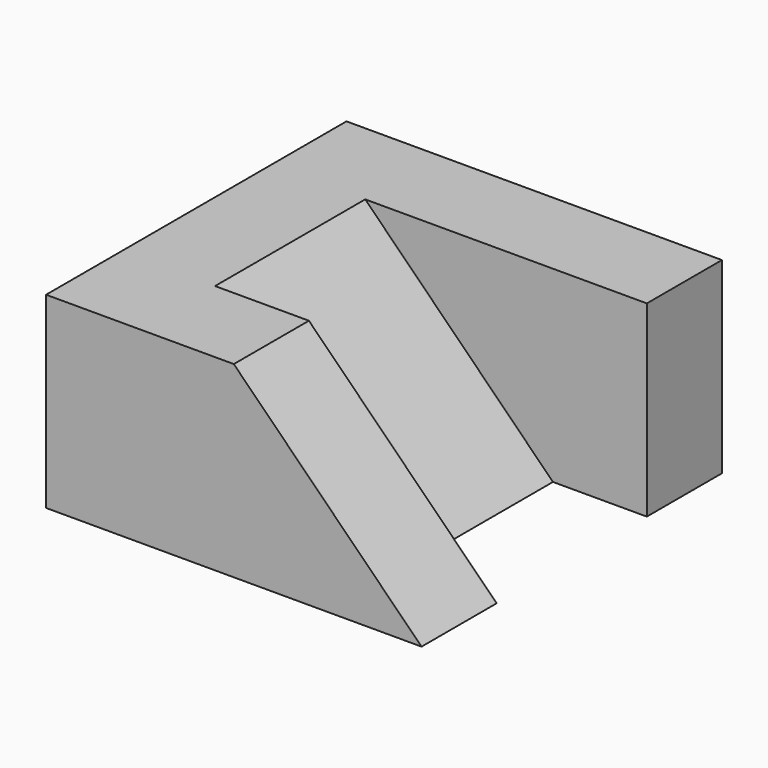
from build123d import *

# Parameters (mm, degrees)
PAD_DEPTH    = 20
PAD001_DEPTH = 30
POCKET_DEPTH = 10


with BuildPart() as part:
    # Sketch → Pad (new body)
    with BuildSketch(Plane.XY):
        Polygon((-10, 40), (-10, 0), (30, 0), (30, 10), (0, 10), (0, 30), (30, 30), (30, 40), align=None)
    extrude(amount=PAD_DEPTH)

    # Sketch001 (on Face6 of Pad) → Pad001 (join)
    with BuildSketch(Plane.XZ.offset(-30)):
        Polygon((0, 0), (20, 0), (0, 20), align=None)
    extrude(amount=PAD001_DEPTH)

    # Sketch002 (on Face8 of Pad001) → Pocket (cut)
    with BuildSketch(Plane.XZ):
        Polygon((30, 0), (10, 20), (30, 20), align=None)
    extrude(amount=-POCKET_DEPTH, mode=Mode.SUBTRACT)


solid = part.part
